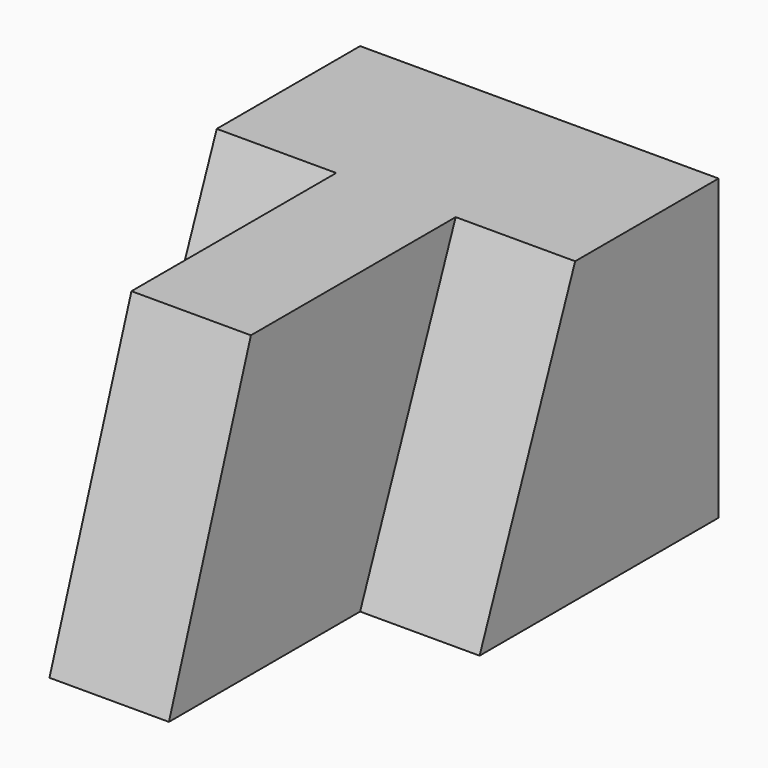
from build123d import *

# Parameters (mm, degrees)
F1_DEPTH = 63.5
F3_DEPTH = 25.4
F5_DEPTH = 25.4
F7_DEPTH = 50.801


with BuildPart() as f1:
    # F0 (on Top) → F1 (new body)
    with BuildSketch(Plane.XY):
        Polygon((-21.019149, 87.15245), (-97.219149, 87.15245), (-97.219149, 23.65245), (-71.819149, 23.65245), (-71.819149, -27.14755), (-46.419149, -27.14755), (-46.419149, 23.65245), (-21.019149, 23.65245), align=None)
    extrude(amount=F1_DEPTH)

    # F2 (on face) → F3 (cut)
    with BuildSketch(Plane(origin=(-97.219149, 0, 0), x_dir=(0, -1, 0), z_dir=(-1, 0, 0))):
        Polygon((-23.65245, 63.5), (-49.05245, 63.5), (-23.65245, 0), align=None)
    extrude(amount=-F3_DEPTH, mode=Mode.SUBTRACT)

    # F4 (on face) → F5 (cut)
    with BuildSketch(Plane.YZ.offset(-21.019149)):
        Polygon((23.65245, 0), (49.05245, 63.5), (23.65245, 63.5), align=None)
    extrude(amount=-F5_DEPTH, mode=Mode.SUBTRACT)

    # F6 (on face) → F7 (cut, through all)
    with BuildSketch(Plane.YZ.offset(-46.419149)):
        Polygon((-27.14755, 0), (-5.36292, 63.5), (-27.14755, 63.5), align=None)
    extrude(amount=-F7_DEPTH, mode=Mode.SUBTRACT)


solid = f1.part
